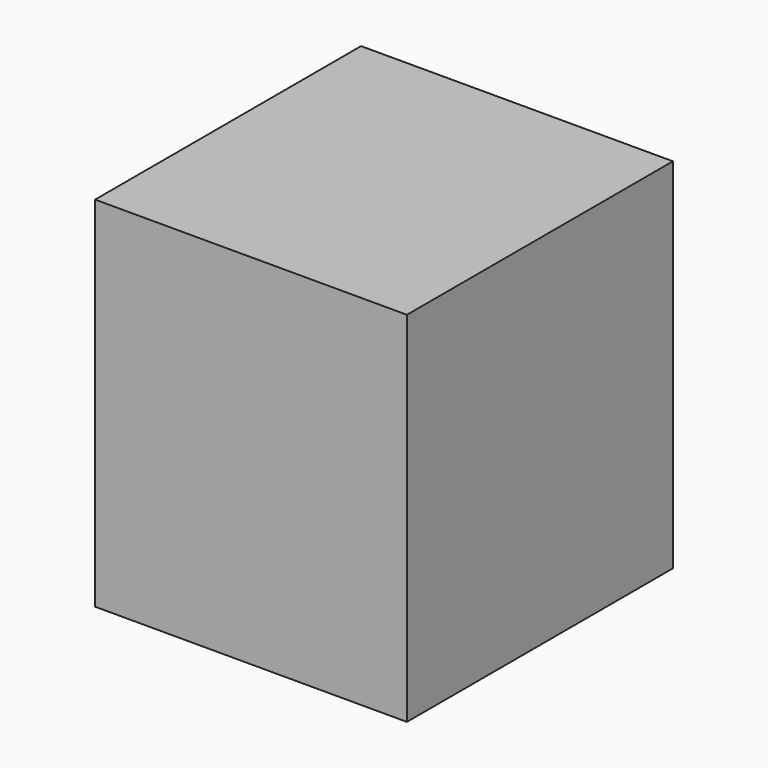
from build123d import *

# Parameters (mm, degrees)
F1_W     = 128.799937
F1_H     = 137.321501
F2_DEPTH = 148.049066


with BuildPart() as f2:
    # F1 (on face) → F2 (new body)
    with BuildSketch(Plane.XY):
        with Locations((3.944229, 1.459151)):
            Rectangle(F1_W, F1_H)
    extrude(amount=F2_DEPTH)


solid = f2.part
